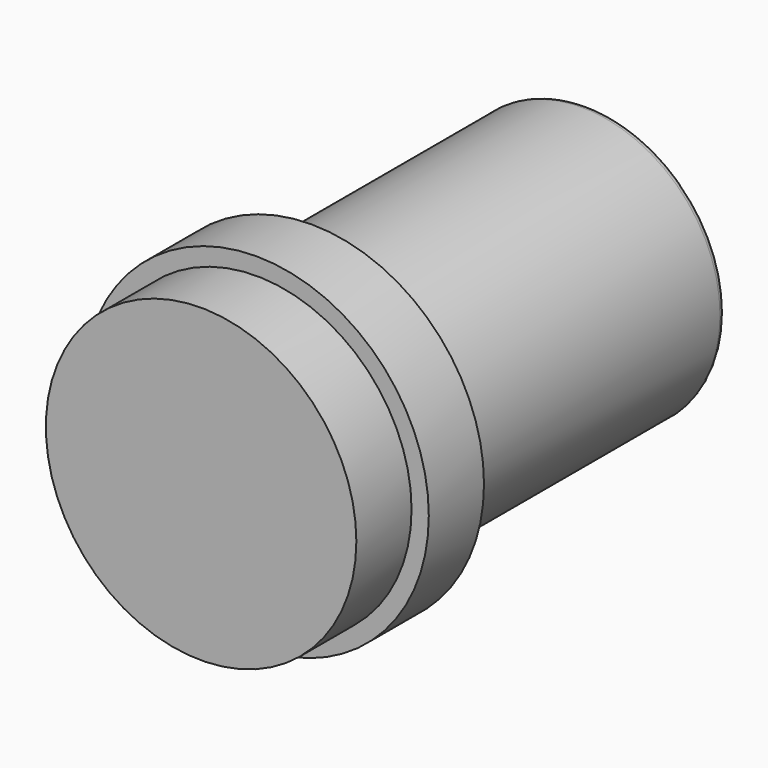
from build123d import *

# Parameters (mm, degrees)
F0_R     = 20
F1_DEPTH = 50
F2_R     = 25
F3_DEPTH = 10
F4_R     = 22.5
F5_DEPTH = 10
F6_R     = 1


with BuildPart() as f1:
    # F0 (on Front) → F1 (new body)
    with BuildSketch(Plane.XZ):
        Circle(F0_R)
    extrude(amount=F1_DEPTH)

    # F2 (on face) → F3 (join)
    with BuildSketch(Plane.XZ.offset(50)):
        Circle(F2_R)
    extrude(amount=F3_DEPTH)

    # F4 (on face) → F5 (join)
    with BuildSketch(Plane.XZ.offset(60)):
        Circle(F4_R)
    extrude(amount=F5_DEPTH)

    # F6
    f6_edges = [f1.edges().sort_by_distance(p)[0] for p in [
        (-20, 0, 0),
    ]]
    fillet(f6_edges, radius=F6_R)


solid = f1.part
